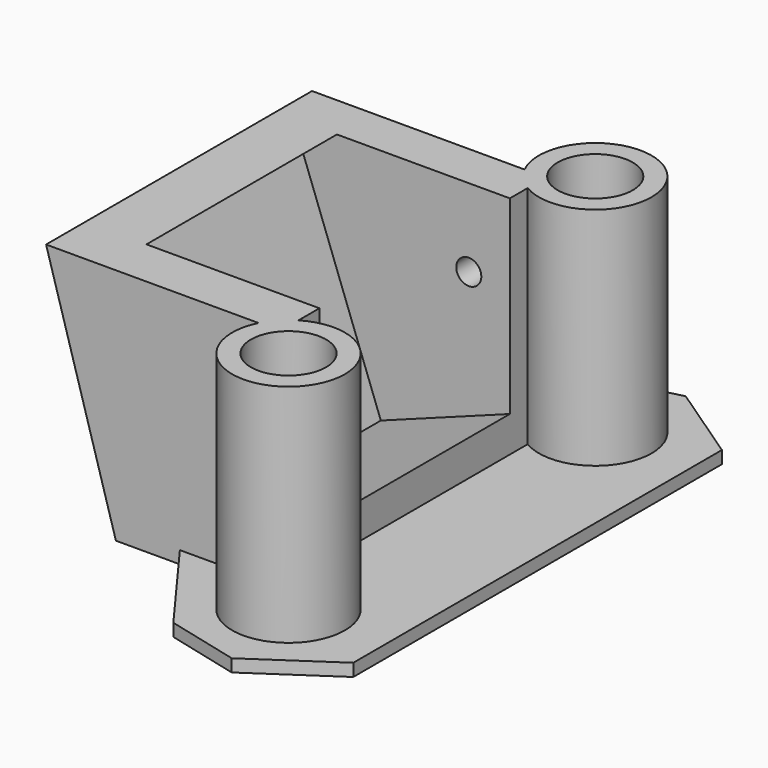
from build123d import *

# Parameters (mm, degrees)
CYLINDER001_R           = 2
CYLINDER001_DEPTH       = 10
CYLINDER_R              = 2
CYLINDER_DEPTH          = 10
PAD007_DEPTH            = 17
SKETCH002_W             = 19
SKETCH002_H             = 19
PAD002_DEPTH            = 11
SKETCH003_R             = 1
PAD003_DEPTH            = 27
PAD003_FACE5_W          = 19
PAD003_FACE5_H          = 19
PAD004_DEPTH            = 24
BODY001_PLACEMENT_ANGLE = 159.7
SKETCH_R                = 3
PAD_DEPTH               = 1
SKETCH001_R             = 4.5
PAD001_DEPTH            = 18
PAD001_FACE25_R         = 3
POCKET_DEPTH            = 22
POCKET_FACE26_R         = 3
POCKET001_DEPTH         = 31
POCKET001_FACE18_W      = 13.265998
POCKET001_FACE18_H      = 18
PAD005_DEPTH            = 8
PAD005_FACE17_W         = 13.265998
PAD005_FACE17_H         = 18
PAD006_DEPTH            = 8


with BuildPart() as cylinder001:
    # Cylinder001 → Cylinder001 (new body)
    with BuildSketch(Plane(origin=(43.8, 13.3, 12.7), x_dir=(-1, 0, 0), z_dir=(0, 1, 0))):
        Circle(CYLINDER001_R)
    extrude(amount=CYLINDER001_DEPTH)


with BuildPart() as cylinder:
    # Cylinder → Cylinder (new body)
    with BuildSketch(Plane(origin=(43.8, -13.3, 12.7), x_dir=(1, 0, 0), z_dir=(0, -1, 0))):
        Circle(CYLINDER_R)
    extrude(amount=CYLINDER_DEPTH)


with BuildPart() as body002:
    # Sketch005 → Pad007 (new body, symmetric)
    with BuildSketch(Plane.XZ):
        Polygon((21.007471, 20.364401), (29.359247, -8.113389), (3.411231, -3.850644), (-10.027989, 26.995327), align=None)
    extrude(amount=PAD007_DEPTH, both=True)


with BuildPart() as body002_1:
    # Body002 placement: moved
    add(body002.part.moved(Location((7, 0, 0))))


with BuildPart() as body001:
    # Sketch002 → Pad002 (new body)
    with BuildSketch(Plane.YZ):
        with Locations((0.156277, 39.976883)):
            Rectangle(SKETCH002_W, SKETCH002_H)
    extrude(amount=PAD002_DEPTH)

    # Sketch003 (on Face2 of Pad002) → Pad003 (join, symmetric)
    with BuildSketch(Plane.ZX.offset(9.656277)):
        with Locations((39.976883, 0)):
            Circle(SKETCH003_R)
    extrude(amount=PAD003_DEPTH, both=True)

    # Pad003 Face5 → Pad004 (add)
    with BuildSketch(Plane(origin=(11, 0.156277, 39.976883), x_dir=(0, -1, 0), z_dir=(1, 0, 0))):
        Rectangle(PAD003_FACE5_W, PAD003_FACE5_H)
    extrude(amount=-PAD004_DEPTH)


with BuildPart() as body001_1:
    # Body001 placement: moved
    add(body001.part.moved(Location((29.937834, 0, 50.257929))).rotate(Axis((29.937834, 0, 50.257929), (0, 1, 0)), BODY001_PLACEMENT_ANGLE))


with BuildPart() as cut003:
    # Sketch → Pad (new body)
    with BuildSketch(Plane.XY):
        Polygon((61.12867, 22.644966), (55.288719, 21.173481), (49.485474, 13.265998), (24.71945, 13.265998), (24.71945, 0), (24.71945, -13.265998), (49.485474, -13.265998), (55.288719, -21.173481), (61.12867, -22.644966), (67.424286, -18.389174), (67.424286, 0), (67.424286, 18.389174), align=None)
        with Locations((59.784004, 15.3)):
            Circle(SKETCH_R, mode=Mode.SUBTRACT)
        with Locations((59.784004, -15.3)):
            Circle(SKETCH_R, mode=Mode.SUBTRACT)
    extrude(amount=PAD_DEPTH)

    # Sketch001 (on Face16 of Pad) → Pad001 (join)
    with BuildSketch(Plane.XY.offset(1)):
        with Locations((59.784004, 15.3)):
            Circle(SKETCH001_R)
        with Locations((59.784004, -15.3)):
            Circle(SKETCH001_R)
        Polygon((24.71945, 0), (24.71945, 13.265998), (49.485474, 13.265998), (49.485474, 0), (49.485474, -13.265998), (24.71945, -13.265998), align=None)
    extrude(amount=PAD001_DEPTH)

    # Pad001 Face25 → Pocket (cut)
    with BuildSketch(Plane(origin=(59.784004, -15.3, 1), x_dir=(0, -1, 0), z_dir=(0, 0, -1))):
        Circle(PAD001_FACE25_R)
    extrude(amount=-POCKET_DEPTH, mode=Mode.SUBTRACT)

    # Pocket Face26 → Pocket001 (cut)
    with BuildSketch(Plane(origin=(59.784004, 15.3, 1), x_dir=(0, -1, 0), z_dir=(0, 0, -1))):
        Circle(POCKET_FACE26_R)
    extrude(amount=-POCKET001_DEPTH, mode=Mode.SUBTRACT)

    # Pocket001 Face18 → Pad005 (add)
    with BuildSketch(Plane(origin=(49.485474, 6.632999, 10), x_dir=(0, -1, 0), z_dir=(1, 0, 0))):
        Rectangle(POCKET001_FACE18_W, POCKET001_FACE18_H)
    extrude(amount=PAD005_DEPTH)

    # Pad005 Face17 → Pad006 (add)
    with BuildSketch(Plane(origin=(49.485474, -6.632999, 10), x_dir=(0, -1, 0), z_dir=(1, 0, 0))):
        Rectangle(PAD005_FACE17_W, PAD005_FACE17_H)
    extrude(amount=PAD006_DEPTH)


with BuildPart() as cut003_1:
    # Body placement: moved
    add(cut003.part.moved(Location((-10.4, 0, 0))))

    # Cut: cut Body001
    add(body001_1.part, mode=Mode.SUBTRACT)

    # Cut001: cut Body002
    add(body002_1.part, mode=Mode.SUBTRACT)

    # Cut002: cut Cylinder
    add(cylinder.part, mode=Mode.SUBTRACT)

    # Cut003: cut Cylinder001
    add(cylinder001.part, mode=Mode.SUBTRACT)


solid = cut003_1.part
